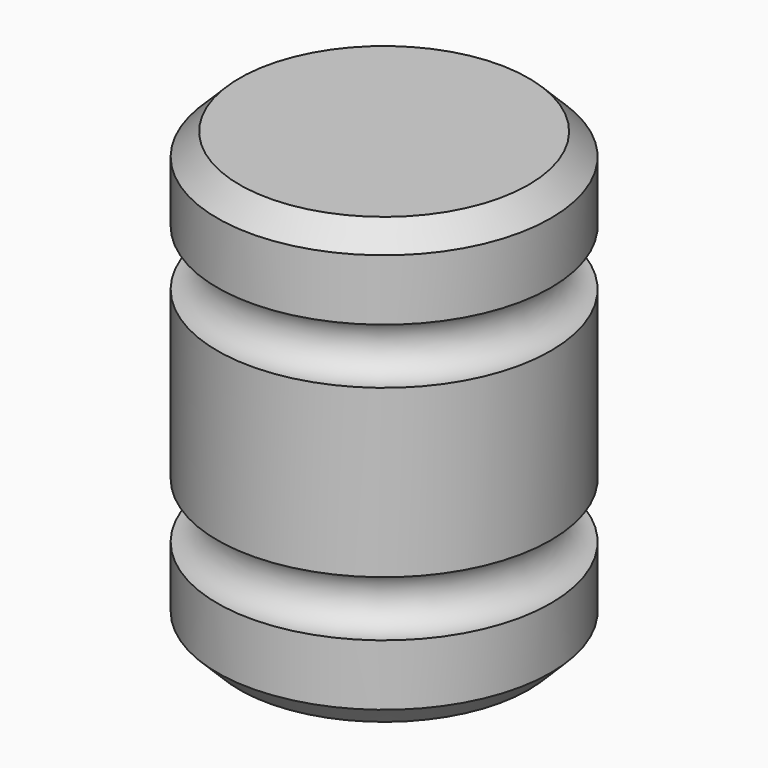
from build123d import *

# Parameters (mm, degrees)
F2_SIZE = 5.08


with BuildPart() as f1:
    # F0 (on Front) → F1 (revolve)
    with BuildSketch(Plane.XZ):
        with BuildLine():
            Line((-38.1, 0), (0, 0))
            Line((0, 0), (0, 19.05))
            ThreePointArc((0, 19.05), (-6.35, 25.4), (0, 31.75))
            Line((0, 31.75), (0, 69.85))
            ThreePointArc((0, 69.85), (-6.35, 76.2), (0, 82.55))
            Line((0, 82.55), (0, 101.6))
            Line((0, 101.6), (-38.1, 101.6))
            Line((-38.1, 101.6), (-38.1, 0))
        make_face()
    revolve(axis=Axis((-38.1, 0, 50.8), (0, 0, 1)))

    # F2
    f2_edges = [f1.edges().sort_by_distance(p)[0] for p in [
        (-76.2, 0, 101.6),
        (-76.2, 0, 0),
    ]]
    chamfer(f2_edges, length=F2_SIZE)


solid = f1.part
